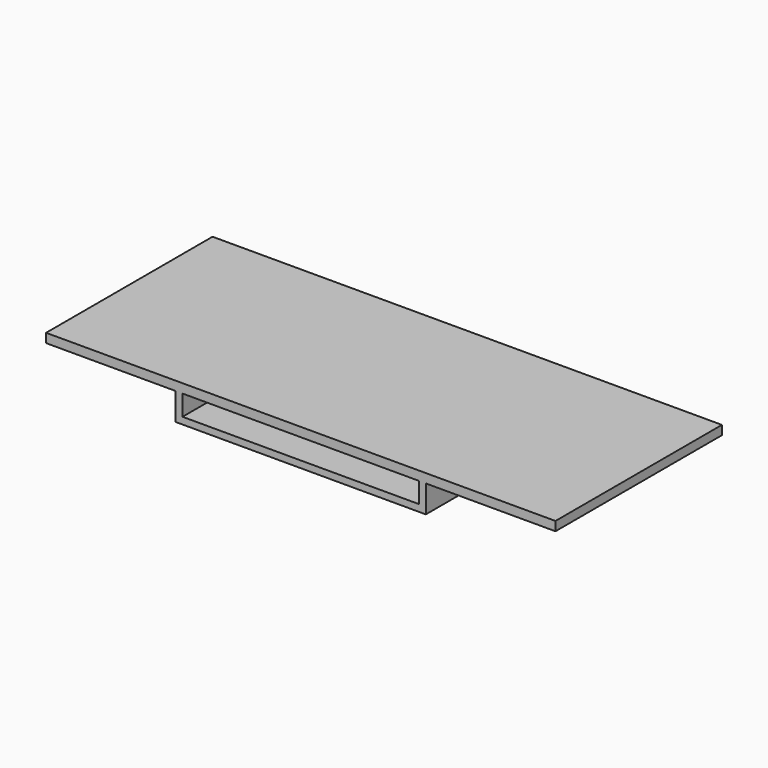
from build123d import *

# Parameters (mm, degrees)
F0_W     = 698.5
F0_H     = 76.2
F1_DEPTH = 581.025
F2_W     = 660.4
F2_H     = 57.15
F3_DEPTH = 565.15


with BuildPart() as f1:
    # F0 (on Front) → F1 (new body)
    with BuildSketch(Plane.XZ):
        Polygon((0, 25.4), (0, 0), (361.95, 0), (1060.45, 0), (1422.4, 0), (1422.4, 25.4), align=None)
        with Locations((711.2, -38.1)):
            Rectangle(F0_W, F0_H)
    extrude(amount=F1_DEPTH)

    # F2 (on face) → F3 (cut)
    with BuildSketch(Plane.XZ.offset(581.025)):
        with Locations((711.2, -28.575)):
            Rectangle(F2_W, F2_H)
    extrude(amount=-F3_DEPTH, mode=Mode.SUBTRACT)


solid = f1.part
